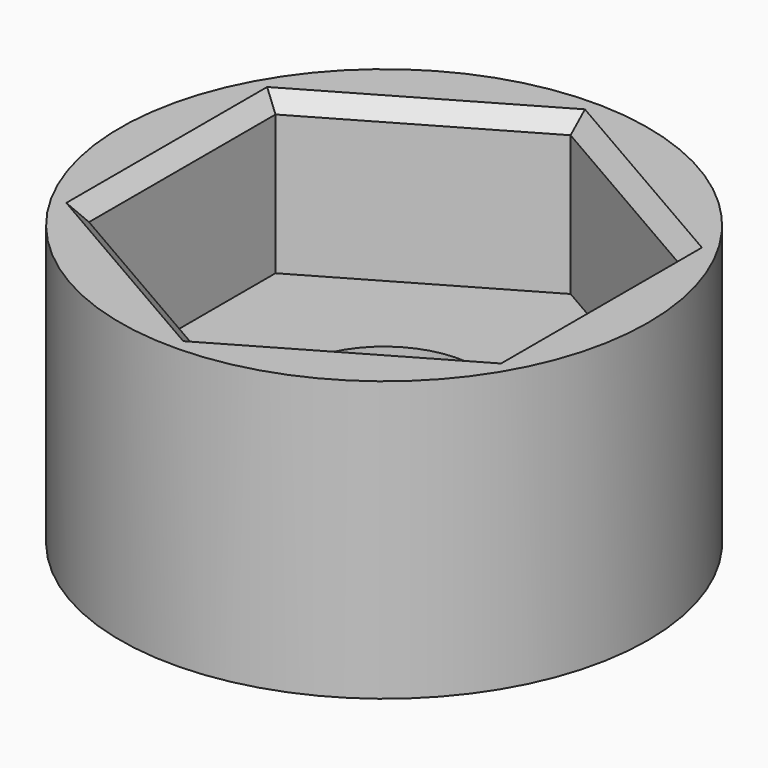
from build123d import *

# Parameters (mm, degrees)
SKETCH_R     = 8.5
SKETCH_R_2   = 3
PAD_DEPTH    = 4
SKETCH001_R  = 8.5
PAD001_DEPTH = 5
CHAMFER_SIZE = 0.5


with BuildPart() as part:
    # Sketch → Pad (new body)
    with BuildSketch(Plane.XY):
        Circle(SKETCH_R)
        Circle(SKETCH_R_2, mode=Mode.SUBTRACT)
    extrude(amount=PAD_DEPTH)

    # Sketch001 (on Face4 of Pad) → Pad001 (join)
    with BuildSketch(Plane.XY.offset(4)):
        Circle(SKETCH001_R)
        Polygon((6.5, -3.752777), (6.5, 3.752777), (0, 7.505553), (-6.5, 3.752777), (-6.5, -3.752777), (0, -7.505553), align=None, mode=Mode.SUBTRACT)
    extrude(amount=PAD001_DEPTH)

    # Chamfer
    chamfer_edges = [part.edges().sort_by_distance(p)[0] for p in [
        (-3.25, 5.629165, 9),
        (3.25, 5.629165, 9),
        (6.5, 0, 9),
        (3.25, -5.629165, 9),
        (-3.25, -5.629165, 9),
        (-6.5, 0, 9),
    ]]
    chamfer(chamfer_edges, length=CHAMFER_SIZE)


solid = part.part
